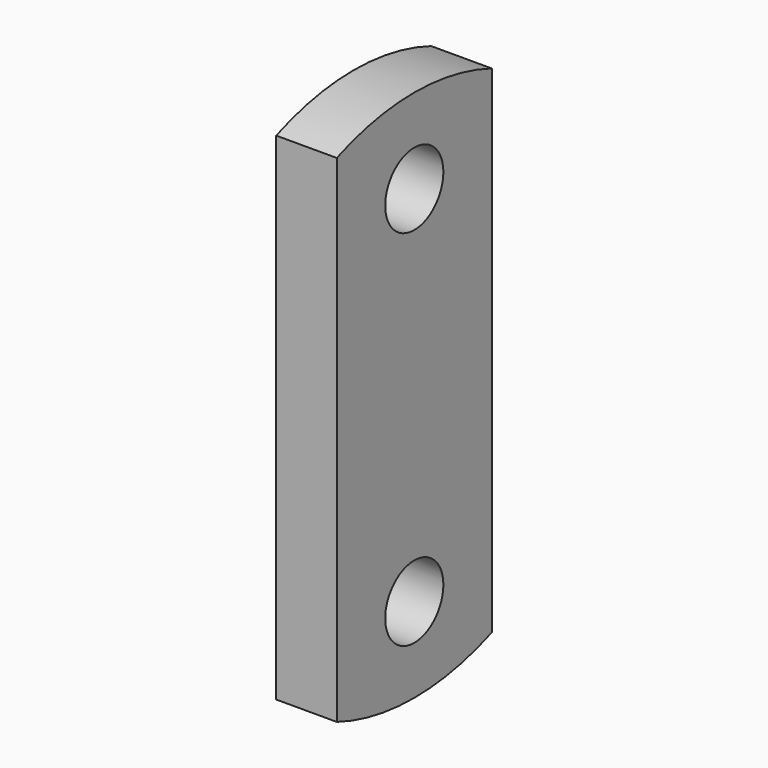
from build123d import *

# Parameters (mm, degrees)
F0_R     = 15
F1_DEPTH = 25


with BuildPart() as f1:
    # F0 (on Right) → F1 (new body)
    with BuildSketch(Plane.YZ):
        with BuildLine():
            Line((-40, 102.469508), (-40, -102.469508))
            ThreePointArc((-40, -102.469508), (0, -110), (40, -102.469508))
            Line((40, -102.469508), (40, 102.469508))
            ThreePointArc((40, 102.469508), (0, 110), (-40, 102.469508))
        make_face()
        with Locations((0, -75)):
            Circle(F0_R, mode=Mode.SUBTRACT)
        with Locations((0, 75)):
            Circle(F0_R, mode=Mode.SUBTRACT)
    extrude(amount=F1_DEPTH)


solid = f1.part
